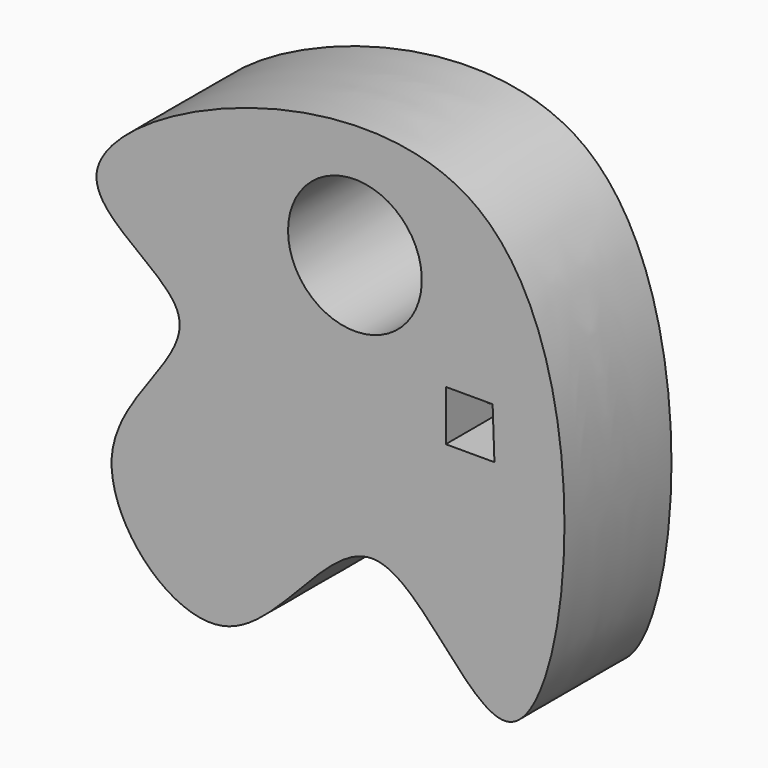
from build123d import *

# Parameters (mm, degrees)
F1_DEPTH = 25.4
F3_D     = 25.4
F3_DEPTH = 25.4
F3_TIP   = 7.6309298617
F5_DEPTH = 41.148
F6_DEPTH = 96.774
F7_R     = 1.8796679151
F8_DEPTH = 63.246
F9_T     = -2.54


with BuildPart() as f1:
    # F0 (on Front) → F1 (new body)
    with BuildSketch(Plane.XZ):
        with BuildLine():
            add(Edge.make_bspline(
                [(-49.037091434, 40.5822508037), (-49.8842294152, 33.0792104303), (-19.0828641983, 23.0351064896), (-58.9742398775, -4.0616741189), (-22.3370798724, -43.1137691563), (3.143289099, 12.7925255304), (37.5843956188, -59.9309465682), (52.8183186462, 98.2635024972), (-47.5532171706, 53.7248187846), (-49.037091434, 40.5822508037)],
                knots=[0, 0, 0, 0, 0.1088014462, 0.2304293127, 0.3515136853, 0.4834583634, 0.6072551503, 0.809419871, 1, 1, 1, 1], degree=3))
        make_face()
    extrude(amount=F1_DEPTH)

    # F3
    with Locations(Plane.XZ.offset(25.4)):
        with Locations((0, 42.782332614)):
            Hole(F3_D / 2, depth=F3_DEPTH)
            with Locations((0, 0, -(F3_DEPTH + F3_TIP / 2))):  # 118° drill point
                Cone(0, F3_D / 2, F3_TIP, mode=Mode.SUBTRACT)

    # F4 (on Front) → F5 (join)
    with BuildSketch(Plane.XZ):
        Polygon((26.4886710793, 16.8106947094), (26.1463560164, 26.394777), (17.246125266, 26.394777), (17.246125266, 16.8106947094), align=None)
    extrude(amount=F5_DEPTH)

    # F6 (cut, symmetric): a face of the model
    f6_faces = [f1.faces().sort_by_distance(p)[0] for p in [
        (21.7823576358, -41.148, 21.5725973611),
    ]]
    extrude(f6_faces, amount=F6_DEPTH, both=True, mode=Mode.SUBTRACT)

    # F7 (on face) → F8 (cut)
    with BuildSketch(Plane.YZ.offset(17.246125266)):
        with Locations((-14.1824632883, 21.0884120315)):
            Circle(F7_R)
    extrude(amount=-F8_DEPTH, mode=Mode.SUBTRACT)

    # F9
    f9_openings = [f1.faces().sort_by_distance(p)[0] for p in [
        (-3.658718, 0, 17.702257),
    ]]
    offset(amount=F9_T, openings=f9_openings, kind=Kind.INTERSECTION)


solid = f1.part
